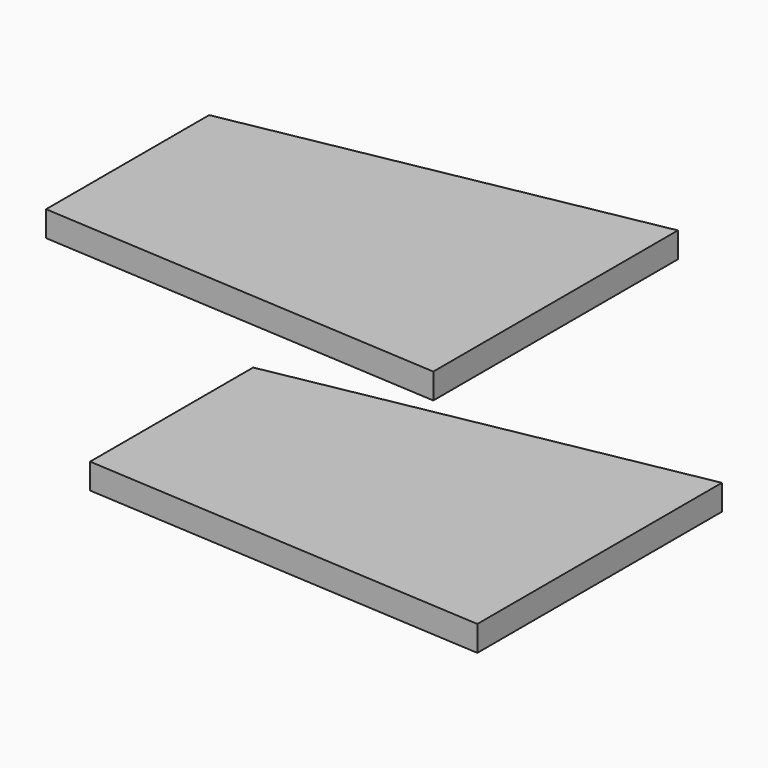
from build123d import *

# Parameters (mm, degrees)
F1_DEPTH = 3.175


with BuildPart() as f1:
    # F0 (on Top) → F1 (new body)
    with BuildSketch(Plane.XY):
        Polygon((-17.591943, -1.955641), (-68.391943, -11.480641), (-68.391943, -36.880641), (-17.591943, -40.055641), align=None)
    extrude(amount=F1_DEPTH)


with BuildPart() as f2_1:
    # F2: copy of F1
    add(f1.part.moved(Location((0, 6.858, -30.48))))


solid = Compound([f1.part, f2_1.part])
